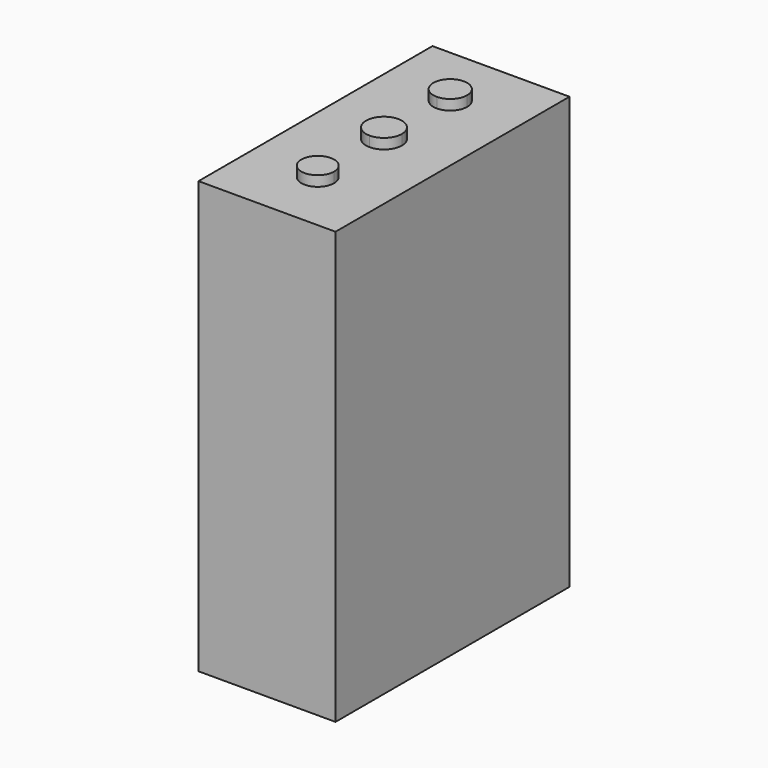
from build123d import *

# Parameters (mm, degrees)
F0_W     = 67
F0_H     = 216
F1_DEPTH = 143
F2_W     = 67
F2_H     = 143
F3_DEPTH = 5


with BuildPart() as f1:
    # F0 (on Front) → F1 (new body)
    with BuildSketch(Plane.XZ):
        with Locations((-4.628491, 54.473461)):
            Rectangle(F0_W, F0_H)
    extrude(amount=F1_DEPTH)

    # F2 (on face) → F3 (cut)
    with BuildSketch(Plane.XY.offset(162.473461)):
        with Locations((-4.628491, -71.5)):
            Rectangle(F2_W, F2_H)
        with BuildLine():
            ThreePointArc((3.377331, -112), (-10.289463, -117.660971), (-4.628491, -103.994178))
            ThreePointArc((-4.628491, -103.994178), (1.03248, -106.339029), (3.377331, -112))
        make_face(mode=Mode.SUBTRACT)
        with BuildLine():
            ThreePointArc((-4.628491, -80.280631), (-13.409123, -71.5), (-4.628491, -62.719369))
            ThreePointArc((-4.628491, -62.719369), (1.580353, -65.291156), (4.15214, -71.5))
            ThreePointArc((4.15214, -71.5), (1.580353, -77.708844), (-4.628491, -80.280631))
        make_face(mode=Mode.SUBTRACT)
        with BuildLine():
            ThreePointArc((3.620305, -31), (1.204289, -36.83278), (-4.628491, -39.248797))
            ThreePointArc((-4.628491, -39.248797), (-10.461272, -25.16722), (3.620305, -31))
        make_face(mode=Mode.SUBTRACT)
    extrude(amount=-F3_DEPTH, mode=Mode.SUBTRACT)


solid = f1.part
